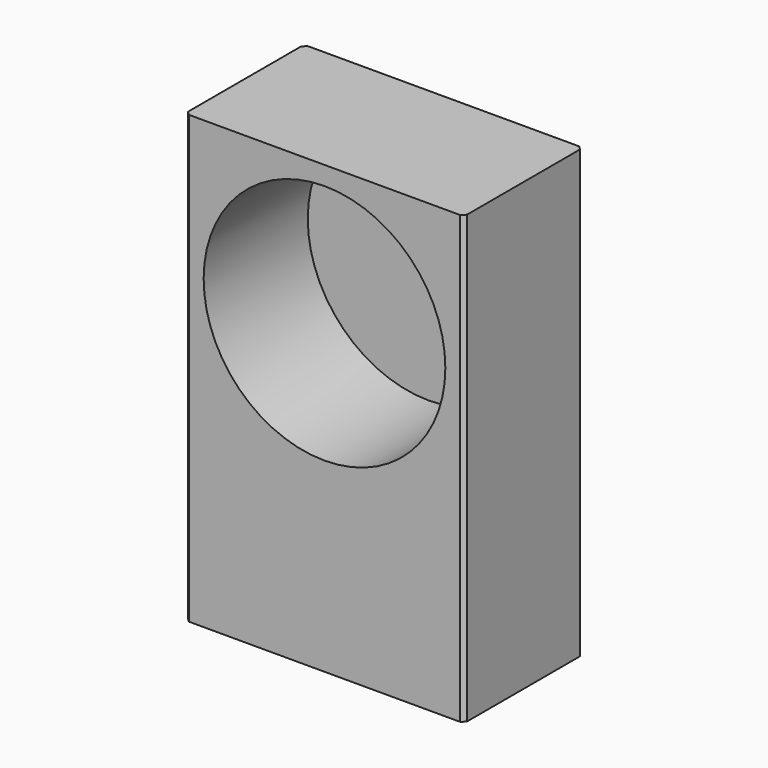
from build123d import *

# Parameters (mm, degrees)
F0_W     = 381
F0_H     = 203.2
F1_DEPTH = 609.6
F2_R     = 165.1
F3_DEPTH = 177.8
F4_SIZE  = 5.08


with BuildPart() as f1:
    # F0 (on Top) → F1 (new body)
    with BuildSketch(Plane.XY):
        with Locations((190.5, 101.6)):
            Rectangle(F0_W, F0_H)
    extrude(amount=F1_DEPTH)

    # F2 (on face) → F3 (cut)
    with BuildSketch(Plane.XZ):
        with Locations((190.5, 419.1)):
            Circle(F2_R)
    extrude(amount=-F3_DEPTH, mode=Mode.SUBTRACT)

    # F4
    f4_edges = [f1.edges().sort_by_distance(p)[0] for p in [
        (0, 203.2, 304.8),
        (0, 0, 304.8),
        (381, 0, 304.8),
        (381, 203.2, 304.8),
    ]]
    chamfer(f4_edges, length=F4_SIZE)


solid = f1.part
